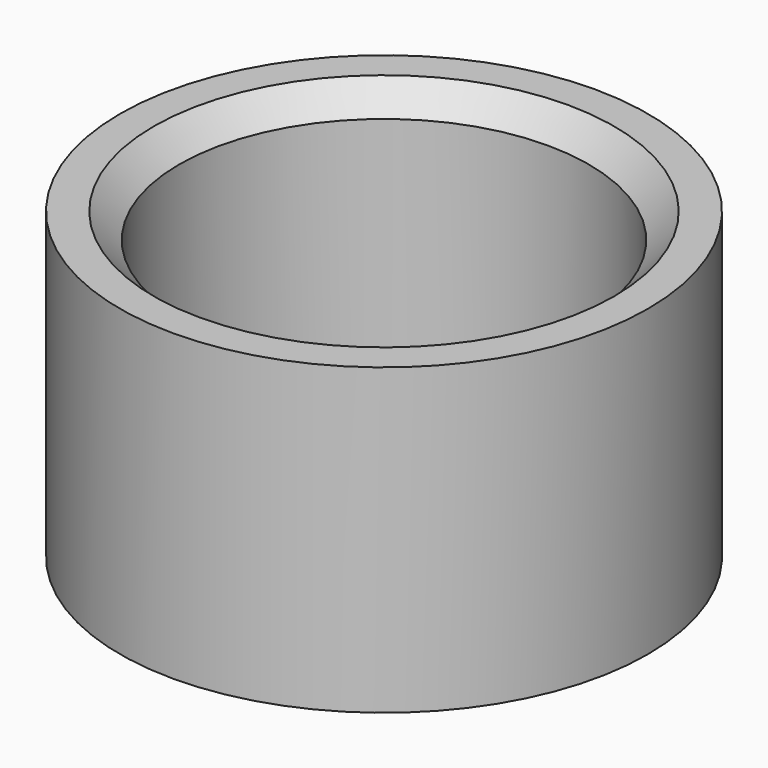
from build123d import *

# Parameters (mm, degrees)
F0_R     = 3.96875
F0_R_2   = 3.07975
F1_DEPTH = 4.572
F2_SIZE  = 0.381


with BuildPart() as f1:
    # F0 (on Top) → F1 (new body)
    with BuildSketch(Plane.XY):
        Circle(F0_R)
        Circle(F0_R_2, mode=Mode.SUBTRACT)
    extrude(amount=-F1_DEPTH)

    # F2
    f2_edges = [f1.edges().sort_by_distance(p)[0] for p in [
        (-3.07975, 0, 0),
    ]]
    chamfer(f2_edges, length=F2_SIZE)


solid = f1.part
